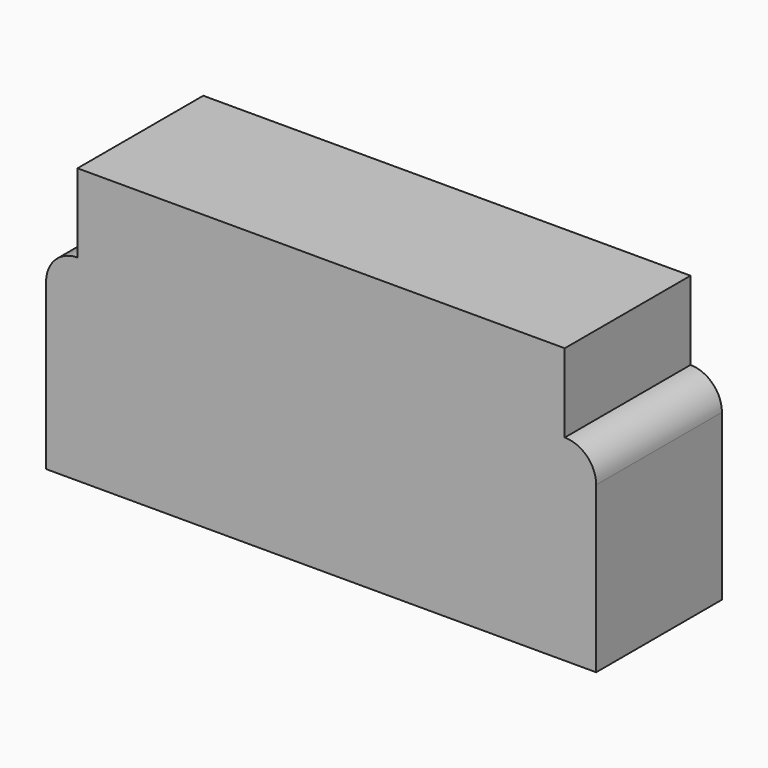
from build123d import *

# Parameters (mm, degrees)
F0_W      = 88.9
F0_H      = 31.75
F1_DEPTH  = 25.4
F2_R      = 5.08
F1_FACE_W = 78.74
F1_FACE_H = 25.4
F3_DEPTH  = 12.7


with BuildPart() as f1:
    # F0 (on Front) → F1 (new body)
    with BuildSketch(Plane.XZ):
        with Locations((-44.45, -5.363265)):
            Rectangle(F0_W, F0_H)
    extrude(amount=F1_DEPTH)

    # F2
    f2_edges = [f1.edges().sort_by_distance(p)[0] for p in [
        (-88.9, -12.7, 10.511735),
        (0, -12.7, 10.511735),
    ]]
    fillet(f2_edges, radius=F2_R)

    # F1_face (on face) → F3 (join)
    with BuildSketch(Plane(origin=(-44.45, -12.7, 10.511735), x_dir=(1, 0, 0), z_dir=(0, 0, 1))):
        Rectangle(F1_FACE_W, F1_FACE_H)
    extrude(amount=F3_DEPTH)


solid = f1.part
